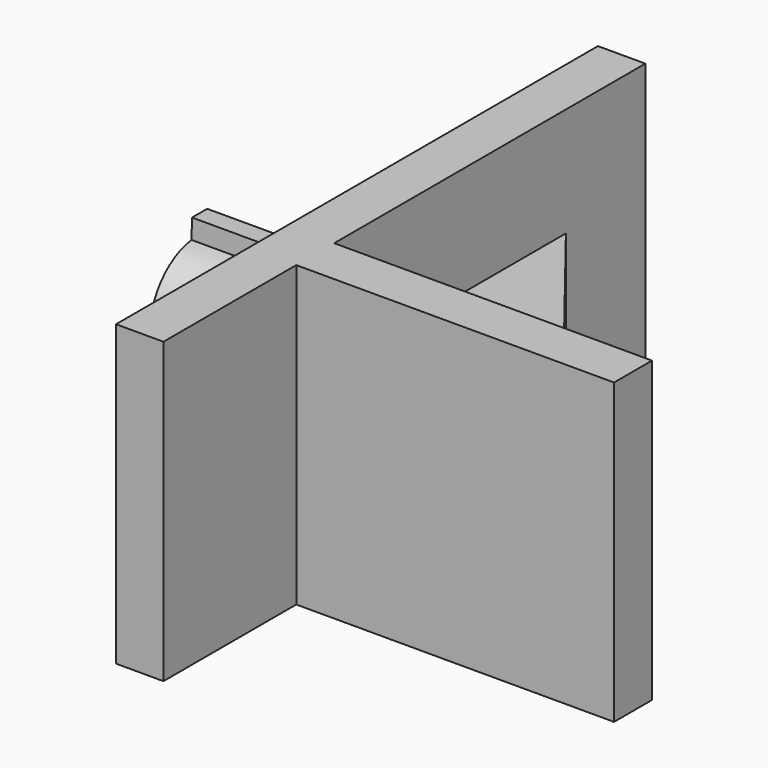
from build123d import *

# Parameters (mm, degrees)
F1_DEPTH = 8
F2_DEPTH = 12.6
F4_DEPTH = 6.4


with BuildPart() as f1:
    # F0 (on Top) → F1 (new body)
    with BuildSketch(Plane.XY):
        Polygon((11.6008939222, -1.1197078275), (2, 11.0917733982), (2, -1.1197078275), align=None)
    extrude(amount=F1_DEPTH)

    # F0 (on Top) → F2 (join)
    with BuildSketch(Plane.XY):
        Polygon((0, 15.2802921725), (0, -10.1197078275), (2, -10.1197078275), (2, -3.1197078275), (15.4, -3.1197078275), (15.4, -1.1197078275), (11.6008939222, -1.1197078275), (2, -1.1197078275), (2, 11.0917733982), (2, 15.2802921725), align=None)
    extrude(amount=F2_DEPTH)

    # F3 (on face) → F4 (join)
    with BuildSketch(Plane(origin=(0, 0, 0), x_dir=(0, -1, 0), z_dir=(-1, 0, 0))):
        with BuildLine():
            ThreePointArc((0.299037522, 5.9791818809), (0.3145348993, 6.1392583384), (0.3197078275, 6.3))
            ThreePointArc((0.3197078275, 6.3), (0.3081127437, 6.5405015024), (0.2734350493, 6.7787720968))
            Line((0.2734350493, 6.7787720968), (-1.7932983009, 6.7125963443))
            Line((-1.7932983009, 6.7125963443), (-1.7676958282, 5.9130061284))
            Line((-1.7676958282, 5.9130061284), (0.299037522, 5.9791818809))
        make_face()
        with BuildLine():
            ThreePointArc((0.2734350493, 6.7787720968), (0.3081127437, 6.5405015024), (0.3197078275, 6.3))
            ThreePointArc((0.3197078275, 6.3), (0.3145348993, 6.1392583384), (0.299037522, 5.9791818809))
            Line((0.299037522, 5.9791818809), (1.1325090638, 6.0058692164))
            Line((1.1325090638, 6.0058692164), (1.1069065911, 6.8054594324))
            Line((1.1069065911, 6.8054594324), (0.2734350493, 6.7787720968))
        make_face()
        with BuildLine():
            Line((-1.7932983009, 6.7125963443), (0.2734350493, 6.7787720968))
            ThreePointArc((0.2734350493, 6.7787720968), (-0.4700047295, 8.123435456), (-1.8594740534, 8.7793296946))
            Line((-1.8594740534, 8.7793296946), (-1.7932983009, 6.7125963443))
        make_face()
        with BuildLine():
            ThreePointArc((-1.7015200757, 3.8462727781), (-0.3568567165, 4.589712557), (0.299037522, 5.9791818809))
            Line((0.299037522, 5.9791818809), (-1.7676958282, 5.9130061284))
            Line((-1.7676958282, 5.9130061284), (-1.7015200757, 3.8462727781))
        make_face()
        with BuildLine():
            Line((-1.7932983009, 6.7125963443), (-1.8594740534, 8.7793296946))
            ThreePointArc((-1.8594740534, 8.7793296946), (-2.2600924425, 8.7987260588), (-2.6586568197, 8.7538066885))
            Line((-2.6586568197, 8.7538066885), (-2.5924789427, 6.687006986))
            Line((-2.5924789427, 6.687006986), (-1.7932983009, 6.7125963443))
        make_face()
        with BuildLine():
            ThreePointArc((-2.6586568197, 8.7538066885), (-2.2600924425, 8.7987260588), (-1.8594740534, 8.7793296946))
            Line((-1.8594740534, 8.7793296946), (-1.8857514999, 9.6))
            Line((-1.8857514999, 9.6), (-2.6857514999, 9.6))
            Line((-2.6857514999, 9.6), (-2.6586568197, 8.7538066885))
        make_face()
        with BuildLine():
            Line((-1.6745311, 3.0033807187), (-1.7015200757, 3.8462727781))
            ThreePointArc((-1.7015200757, 3.8462727781), (-2.1000769886, 3.8012872265), (-2.5006985929, 3.8206170675))
            Line((-2.5006985929, 3.8206170675), (-2.4745311, 3.0033807187))
            Line((-2.4745311, 3.0033807187), (-1.6745311, 3.0033807187))
        make_face()
        with BuildLine():
            ThreePointArc((-2.5006985929, 3.8206170675), (-2.1000769886, 3.8012872265), (-1.7015200757, 3.8462727781))
            Line((-1.7015200757, 3.8462727781), (-1.7676958282, 5.9130061284))
            Line((-1.7676958282, 5.9130061284), (-2.56687647, 5.88741677))
            Line((-2.56687647, 5.88741677), (-2.5006985929, 3.8206170675))
        make_face()
        with BuildLine():
            Line((-2.5924789427, 6.687006986), (-2.6586568197, 8.7538066885))
            ThreePointArc((-2.6586568197, 8.7538066885), (-4.0035856251, 8.0104388285), (-4.6596218671, 6.6208181191))
            Line((-4.6596218671, 6.6208181191), (-2.5924789427, 6.687006986))
        make_face()
        with BuildLine():
            Line((-2.56687647, 5.88741677), (-2.5924789427, 6.687006986))
            Line((-2.5924789427, 6.687006986), (-4.6596218671, 6.6208181191))
            ThreePointArc((-4.6596218671, 6.6208181191), (-4.6790115973, 6.2199922728), (-4.6340193944, 5.8212279032))
            Line((-4.6340193944, 5.8212279032), (-2.56687647, 5.88741677))
        make_face()
        with BuildLine():
            ThreePointArc((-4.6340193944, 5.8212279032), (-3.8904282184, 4.4764225531), (-2.5006985929, 3.8206170675))
            Line((-2.5006985929, 3.8206170675), (-2.56687647, 5.88741677))
            Line((-2.56687647, 5.88741677), (-4.6340193944, 5.8212279032))
        make_face()
        with BuildLine():
            ThreePointArc((-4.6340193944, 5.8212279032), (-4.6790115973, 6.2199922728), (-4.6596218671, 6.6208181191))
            Line((-4.6596218671, 6.6208181191), (-5.4930934089, 6.5941307836))
            Line((-5.4930934089, 6.5941307836), (-5.4674909362, 5.7945405676))
            Line((-5.4674909362, 5.7945405676), (-4.6340193944, 5.8212279032))
        make_face()
    extrude(amount=F4_DEPTH)


solid = f1.part
